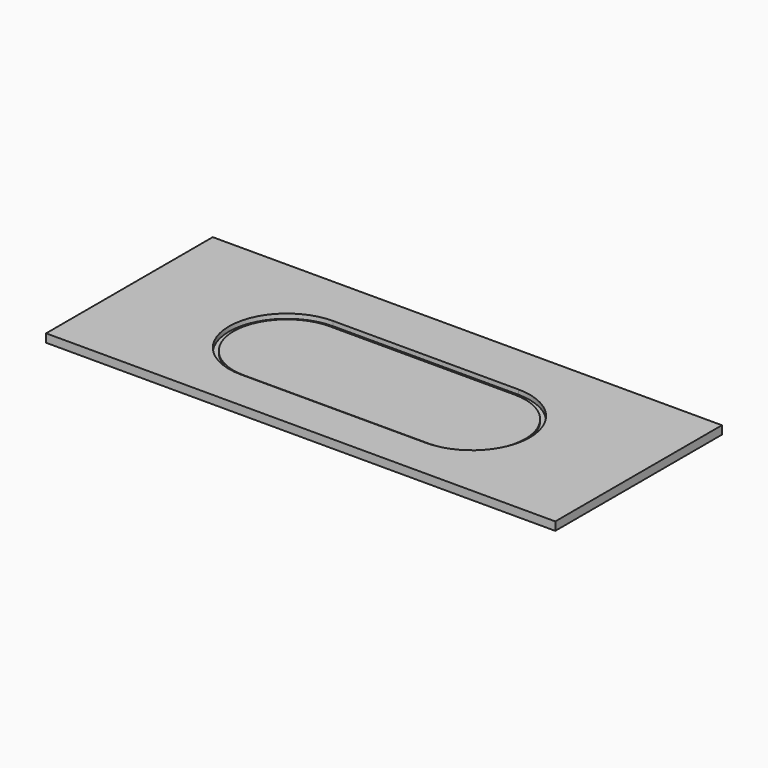
from build123d import *

# Parameters (mm, degrees)
F0_W     = 1100
F0_H     = 450
F1_DEPTH = 18
F3_DEPTH = 18.001
F5_DEPTH = 10
F7_DEPTH = 4


with BuildPart() as f1:
    # F0 (on Top) → F1 (new body)
    with BuildSketch(Plane.XY):
        with Locations((-550, 225)):
            Rectangle(F0_W, F0_H)
    extrude(amount=F1_DEPTH)

    # F2 (on face) → F3 (cut, through all)
    with BuildSketch(Plane.XY.offset(18)):
        with BuildLine():
            Line((-349.999957, 287.713336), (-749.999957, 287.713336))
            ThreePointArc((-749.999957, 287.713336), (-824.999844, 212.713279), (-749.999844, 137.713336))
            Line((-749.999844, 137.713336), (-350, 137.713336))
            ThreePointArc((-350, 137.713336), (-275, 212.713315), (-349.999957, 287.713336))
        make_face()
    extrude(amount=-F3_DEPTH, mode=Mode.SUBTRACT)

    # F4 (on face) → F5 (cut)
    with BuildSketch(Plane.XY.offset(18)):
        with BuildLine():
            ThreePointArc((-350, 87.713336), (-225, 212.713336), (-350, 337.713336))
            Line((-350, 337.713336), (-749.999844, 337.713336))
            ThreePointArc((-749.999844, 337.713336), (-874.999844, 212.713336), (-749.999844, 87.713336))
            Line((-749.999844, 87.713336), (-350, 87.713336))
        make_face()
    extrude(amount=-F5_DEPTH, mode=Mode.SUBTRACT)


with BuildPart() as f7:
    # F6 (on face) → F7 (new body)
    with BuildSketch(Plane.XY.offset(8)):
        with BuildLine():
            Line((-350, 327.713336), (-749.999844, 327.713336))
            ThreePointArc((-749.999844, 327.713336), (-864.999844, 212.713336), (-749.999844, 97.713336))
            Line((-749.999844, 97.713336), (-350, 97.713336))
            ThreePointArc((-350, 97.713336), (-235, 212.713336), (-350, 327.713336))
        make_face()
    extrude(amount=F7_DEPTH)


solid = Compound([f1.part, f7.part])
